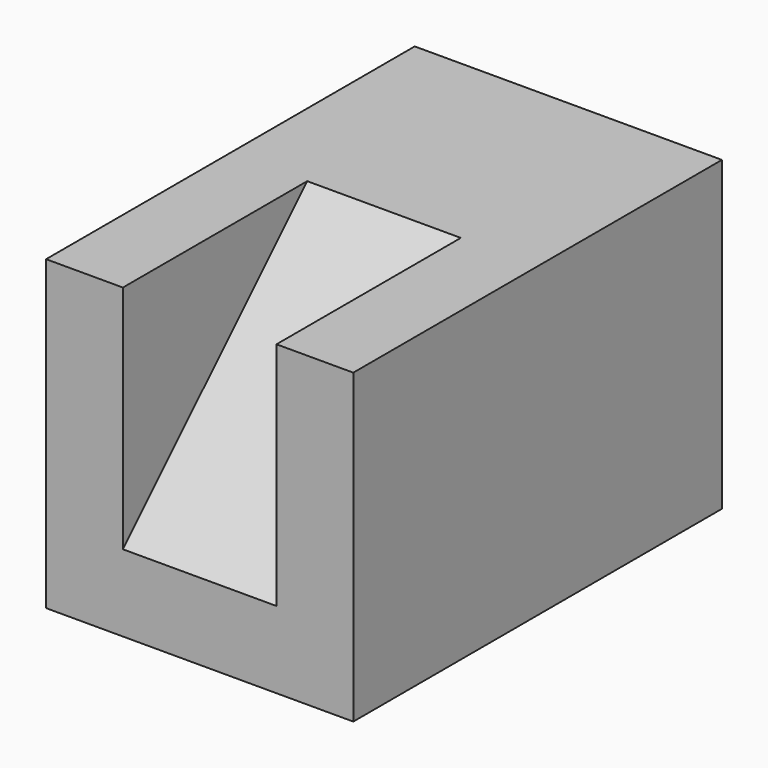
from build123d import *

# Parameters (mm, degrees)
F0_W     = 38.1
F0_H     = 25.4
F1_DEPTH = 12.7
F3_START = -6.35
F3_DEPTH = 12.7


with BuildPart() as f1:
    # F0 (on Right) → F1 (new body, symmetric)
    with BuildSketch(Plane.YZ):
        with Locations((19.05, 12.7)):
            Rectangle(F0_W, F0_H)
    extrude(amount=F1_DEPTH, both=True)

    # F2 (on face) → F3 (cut)
    with BuildSketch(Plane.YZ.offset(12.7).offset(F3_START)):
        Polygon((0, 25.4), (0, 6.35), (19.05, 25.4), align=None)
    extrude(amount=-F3_DEPTH, mode=Mode.SUBTRACT)


solid = f1.part
